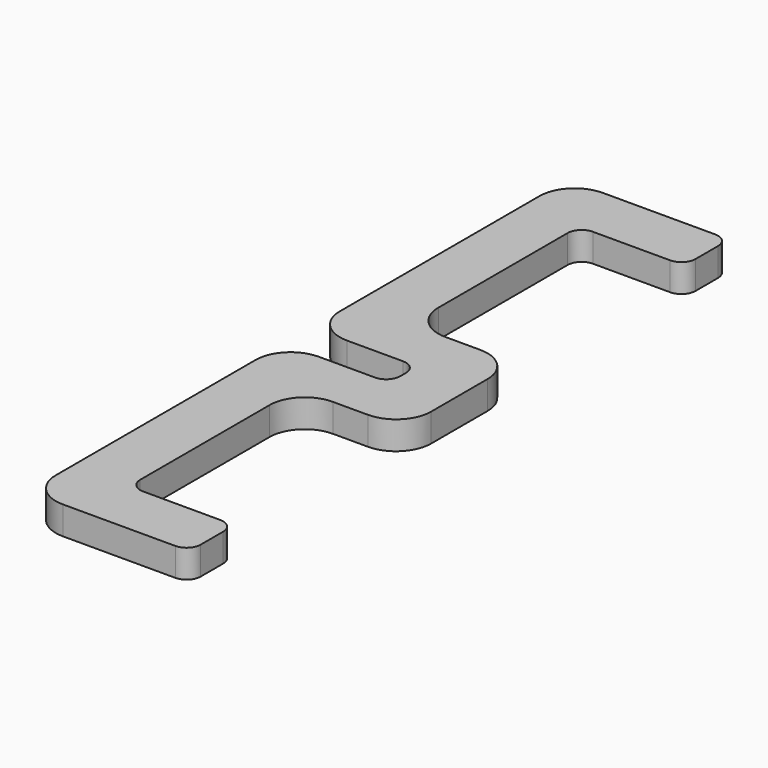
from build123d import *

# Parameters (mm, degrees)
F1_DEPTH = 4


with BuildPart() as f1:
    # F0 (on Top) → F1 (new body)
    with BuildSketch(Plane.XY):
        with BuildLine():
            ThreePointArc((10.238371, 46), (9.652584, 47.414214), (8.238371, 48))
            Line((8.238371, 48), (-7.761629, 48))
            ThreePointArc((-7.761629, 48), (-11.297163, 46.535534), (-12.761629, 43))
            Line((-12.761629, 43), (-12.761629, 7.5))
            ThreePointArc((-12.761629, 7.5), (-11.297163, 3.964466), (-7.761629, 2.5))
            Line((-7.761629, 2.5), (0.238371, 2.5))
            ThreePointArc((0.238371, 2.5), (1.652584, 1.914214), (2.238371, 0.5))
            Line((2.238371, 0.5), (2.238371, -0.5))
            ThreePointArc((2.238371, -0.5), (1.652584, -1.914214), (0.238371, -2.5))
            Line((0.238371, -2.5), (-7.761629, -2.5))
            ThreePointArc((-7.761629, -2.5), (-11.297163, -3.964466), (-12.761629, -7.5))
            Line((-12.761629, -7.5), (-12.761629, -43))
            ThreePointArc((-12.761629, -43), (-11.297163, -46.535534), (-7.761629, -48))
            Line((-7.761629, -48), (8.238371, -48))
            ThreePointArc((8.238371, -48), (9.652584, -47.414214), (10.238371, -46))
            Line((10.238371, -46), (10.238371, -42))
            ThreePointArc((10.238371, -42), (9.652584, -40.585786), (8.238371, -40))
            Line((8.238371, -40), (-2.761629, -40))
            ThreePointArc((-2.761629, -40), (-4.175843, -39.414214), (-4.761629, -38))
            Line((-4.761629, -38), (-4.761629, -15))
            ThreePointArc((-4.761629, -15), (-3.297163, -11.464466), (0.238371, -10))
            Line((0.238371, -10), (5.238371, -10))
            ThreePointArc((5.238371, -10), (8.773904, -8.535534), (10.238371, -5))
            Line((10.238371, -5), (10.238371, 5))
            ThreePointArc((10.238371, 5), (8.773904, 8.535534), (5.238371, 10))
            Line((5.238371, 10), (0.238371, 10))
            ThreePointArc((0.238371, 10), (-3.297163, 11.464466), (-4.761629, 15))
            Line((-4.761629, 15), (-4.761629, 38))
            ThreePointArc((-4.761629, 38), (-4.175843, 39.414214), (-2.761629, 40))
            Line((-2.761629, 40), (8.238371, 40))
            ThreePointArc((8.238371, 40), (9.652584, 40.585786), (10.238371, 42))
            Line((10.238371, 42), (10.238371, 46))
        make_face()
    extrude(amount=F1_DEPTH)


solid = f1.part
